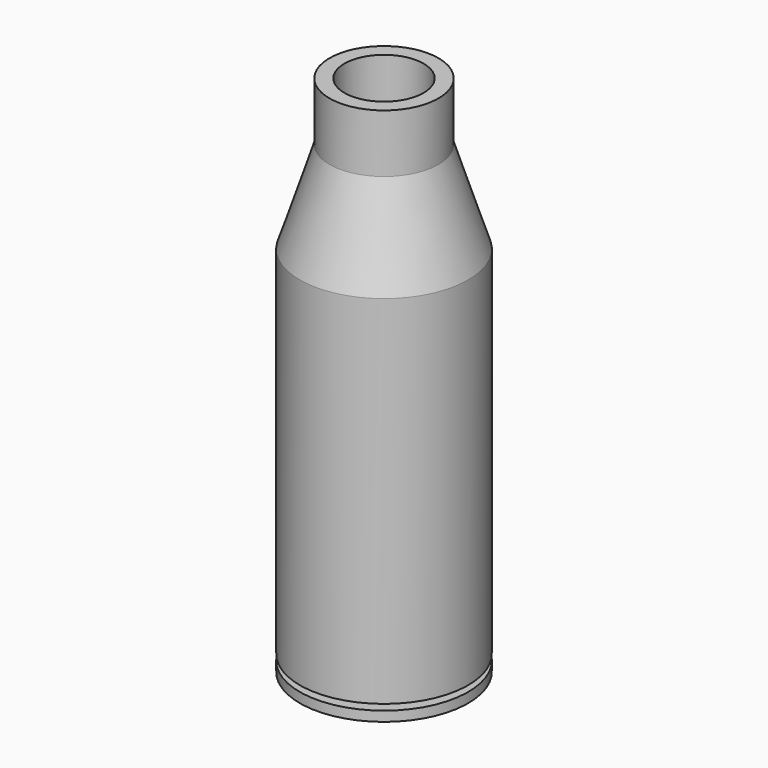
from build123d import *

# Parameters (mm, degrees)
F4_R     = 2.152954
F5_DEPTH = 50.8


with BuildPart() as f1:
    # F0 (on Right) → F1 (revolve)
    with BuildSketch(Plane.YZ):
        Polygon((0, -174.897112), (0, -185.057112), (53.975, -185.057112), (53.975, -178.707112), (33.856217, -178.707112), (33.856217, -174.897112), align=None)
        Polygon((0, -165.372112), (0, -174.897112), (33.856217, -174.897112), (44.45, -165.372112), align=None)
        Polygon((44.45, -165.372112), (33.856217, -174.897112), (53.975, -174.897112), (53.975, 53.846701), (34.925, 112.763417), (34.925, 150.090903), (25.4, 150.090903), (25.4, 111.261793), (44.45, 52.345077), align=None)
    revolve(axis=Axis((0, 0, 8.948858), (0, 0, 1)))

    # F2 (on Right) → F3 (revolve)
    with BuildSketch(Plane.YZ):
        Polygon((71.640717, -70.134891), (24.463108, -105.071298), (26.635614, -108.005017), (30.627662, -105.071298), (71.058815, -75.13084), (73.798926, -73.049305), align=None)
    revolve(axis=Axis((0, 52.4091, -92.892285), (0, -0.803638, -0.595118)))

    # F4 (on face) → F5 (cut)
    with BuildSketch(Plane(origin=(0, 12.725377, 9.423516), x_dir=(-1, 0, 0), z_dir=(0, 0.803638, 0.595118))):
        with Locations((0, -105.841401)):
            Circle(F4_R)
    extrude(amount=-F5_DEPTH, mode=Mode.SUBTRACT)


solid = f1.part
